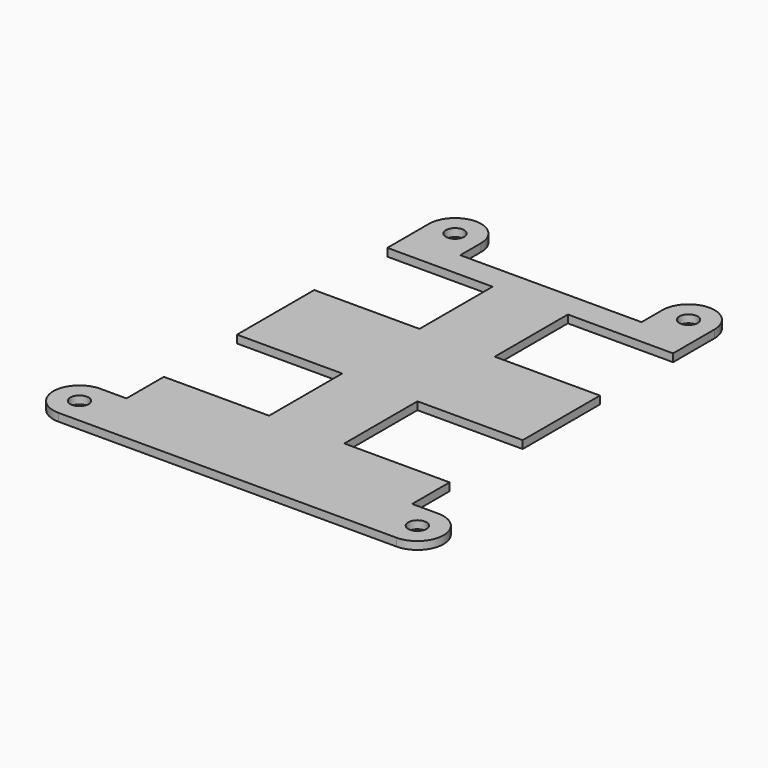
from build123d import *

# Parameters (mm, degrees)
F1_W     = 54.708
F1_H     = 77.4
F2_DEPTH = 1.5
F3_R     = 1.75
F4_DEPTH = 1.5
F5_W     = 20.2
F5_H     = 17.5
F6_DEPTH = 1.501


with BuildPart() as f2:
    # F1 (on face) → F2 (new body)
    with BuildSketch(Plane.XY):
        with Locations((25.654, 37)):
            Rectangle(F1_W, F1_H)
    extrude(amount=F2_DEPTH)

    # F3 (on face) → F4 (join)
    with BuildSketch(Plane(origin=(0, 0, 0), x_dir=(1, 0, 0), z_dir=(0, 0, -1))):
        with BuildLine():
            Line((-1.7, 1.7), (-6.7, 1.7))
            ThreePointArc((-6.7, 1.7), (-11.7, -3.3), (-6.7, -8.3))
            Line((-6.7, -8.3), (-1.7, -8.3))
            Line((-1.7, -8.3), (-1.7, 1.7))
        make_face()
        with Locations((-6.7, -3.3)):
            Circle(F3_R, mode=Mode.SUBTRACT)
        with BuildLine():
            Line((-1.7, -75.7), (-1.7, -80.7))
            ThreePointArc((-1.7, -80.7), (3.3, -85.7), (8.3, -80.7))
            Line((8.3, -80.7), (8.3, -75.7))
            Line((8.3, -75.7), (-1.7, -75.7))
        make_face()
        with Locations((3.3, -80.7)):
            Circle(F3_R, mode=Mode.SUBTRACT)
        with BuildLine():
            Line((53.008, -8.3), (58.008, -8.3))
            ThreePointArc((58.008, -8.3), (63.008, -3.3), (58.008, 1.7))
            Line((58.008, 1.7), (53.008, 1.7))
            Line((53.008, 1.7), (53.008, -8.3))
        make_face()
        with Locations((58.008, -3.3)):
            Circle(F3_R, mode=Mode.SUBTRACT)
        with BuildLine():
            Line((43.008, -75.7), (43.008, -80.7))
            ThreePointArc((43.008, -80.7), (48.008, -85.7), (53.008, -80.7))
            Line((53.008, -80.7), (53.008, -75.7))
            Line((53.008, -75.7), (43.008, -75.7))
        make_face()
        with Locations((48.008, -80.7)):
            Circle(F3_R, mode=Mode.SUBTRACT)
    extrude(amount=-F4_DEPTH)

    # F5 (on face) → F6 (cut, through all)
    with BuildSketch(Plane.XY.offset(1.5)):
        with Locations((8.35, 26)):
            Rectangle(F5_W, F5_H)
        with Locations((42.958, 26)):
            Rectangle(F5_W, F5_H)
        with Locations((8.35, 62)):
            Rectangle(F5_W, F5_H)
        with Locations((42.958, 62)):
            Rectangle(F5_W, F5_H)
    extrude(amount=-F6_DEPTH, mode=Mode.SUBTRACT)


solid = f2.part
